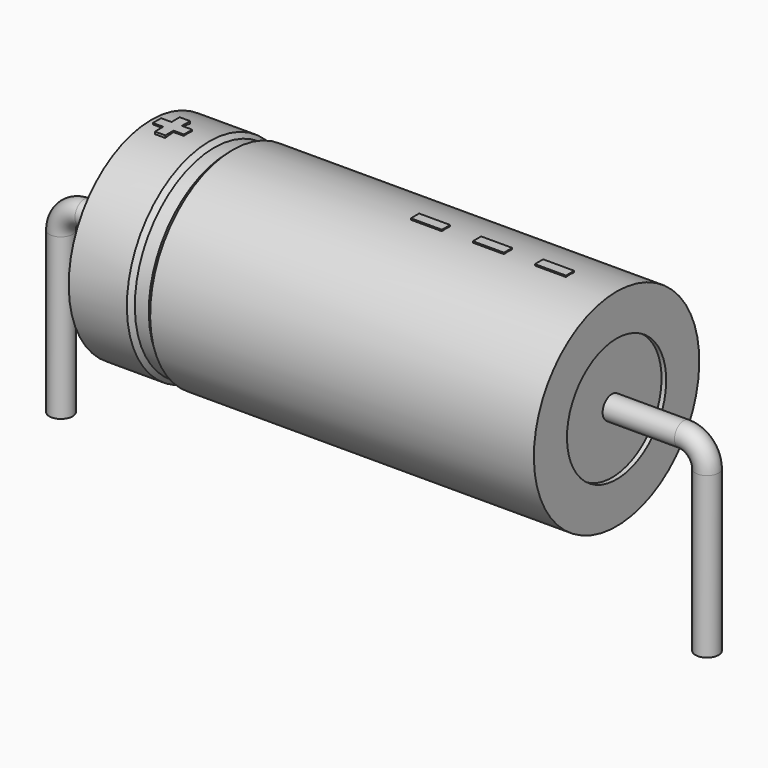
from build123d import *

# Parameters (mm, degrees)
SKETCH_R    = 0.45
SKETCH004_W = 1.2
SKETCH004_H = 0.4
PAD_DEPTH   = 4.04


with BuildPart() as sweep_body:
    # Sweep: sweep along a path in Sketch001
    with BuildLine(Plane.XZ) as sweep_path:
        Line((0, -3), (0, 3.2))
        ThreePointArc((0, 3.2), (0.263601, 3.836393), (0.899992, 4.1))
        Line((0.899992, 4.1), (24.1, 4.1))
        ThreePointArc((24.1, 4.1), (24.736396, 3.836396), (25, 3.2))
        Line((25, 3.2), (25, -3))
    # Sketch → Sweep (sweep)
    with BuildSketch(Plane.XY.offset(-2)):
        Circle(SKETCH_R)
    sweep(path=sweep_path.line)


with BuildPart() as revolution:
    # Sketch002 → Revolution (revolve)
    with BuildSketch(Plane.XZ):
        Polygon((3.5, 8.1), (3.5, 6.5), (21.5, 6.5), (21.5, 8.1), (6.65, 8.1), (6.47, 7.94), (5.93, 7.94), (5.75, 8.1), align=None)
    revolve(axis=Axis((6.97588, 0, 4.1), (1, 0, 0)))


with BuildPart() as revolution001:
    # Sketch003 → Revolution001 (revolve)
    with BuildSketch(Plane.XZ):
        Polygon((3.68, 7.94), (4.58, 7.94), (4.58, 4.5), (20.42, 4.5), (20.42, 7.94), (21.32, 7.94), (21.32, 4.1), (3.68, 4.1), align=None)
    revolve(axis=Axis((6.97588, 0, 4.1), (1, 0, 0)))


with BuildPart() as pad:
    # Sketch004 → Pad (new body)
    with BuildSketch(Plane.XY.offset(4.1)):
        with Locations((19.1, 0)):
            Rectangle(SKETCH004_W, SKETCH004_H)
        with Locations((16.7, 0)):
            Rectangle(SKETCH004_W, SKETCH004_H)
        with Locations((14.3, 0)):
            Rectangle(SKETCH004_W, SKETCH004_H)
        Polygon((4.116, 0.2), (3.716, 0.2), (3.716, -0.2), (4.116, -0.2), (4.116, -0.6), (4.516, -0.6), (4.516, -0.2), (4.916, -0.2), (4.916, 0.2), (4.516, 0.2), (4.516, 0.6), (4.116, 0.6), align=None)
    extrude(amount=PAD_DEPTH)


solid = Compound([sweep_body.part, revolution.part, revolution001.part, pad.part])
